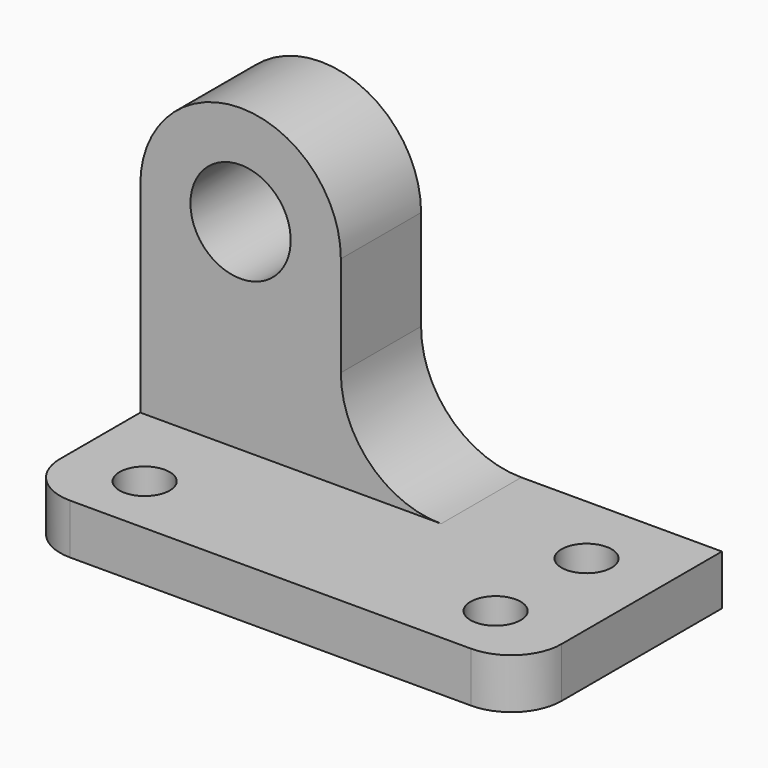
from build123d import *

# Parameters (mm, degrees)
F1_DEPTH = 12.7
F2_R     = 6.35
F3_DEPTH = 12.7
F4_R     = 12.7
F5_DEPTH = 25.4


with BuildPart() as f1:
    # F0 (on Top) → F1 (new body)
    with BuildSketch(Plane.XY):
        with BuildLine():
            ThreePointArc((-56.690635, -28.497916), (-52.970891, -37.478172), (-43.990635, -41.197916))
            Line((-43.990635, -41.197916), (57.609365, -41.197916))
            ThreePointArc((57.609365, -41.197916), (66.589621, -37.478172), (70.309365, -28.497916))
            Line((70.309365, -28.497916), (70.309365, 22.302084))
            Line((70.309365, 22.302084), (-56.690635, 22.302084))
            Line((-56.690635, 22.302084), (-56.690635, -28.497916))
        make_face()
    extrude(amount=F1_DEPTH)

    # F2 (on face) → F3 (cut)
    with BuildSketch(Plane.XY.offset(12.7)):
        with Locations((-37.640635, -25.535107)):
            Circle(F2_R)
        with Locations((51.259365, -25.535107)):
            Circle(F2_R)
        with Locations((51.259365, 3.252084)):
            Circle(F2_R)
    extrude(amount=-F3_DEPTH, mode=Mode.SUBTRACT)

    # F4 (on face) → F5 (join)
    with BuildSketch(Plane(origin=(0, 22.302084, 0), x_dir=(-1, 0, 0), z_dir=(0, 1, 0))):
        with BuildLine():
            Line((5.890635, 63.5), (5.890635, 38.1))
            ThreePointArc((5.890635, 38.1), (-1.548853, 20.139488), (-19.509365, 12.7))
            Line((-19.509365, 12.7), (56.690635, 12.7))
            Line((56.690635, 12.7), (56.690635, 63.5))
            ThreePointArc((56.690635, 63.5), (31.290635, 88.9), (5.890635, 63.5))
        make_face()
        with Locations((31.290635, 63.5)):
            Circle(F4_R, mode=Mode.SUBTRACT)
    extrude(amount=-F5_DEPTH)


solid = f1.part
